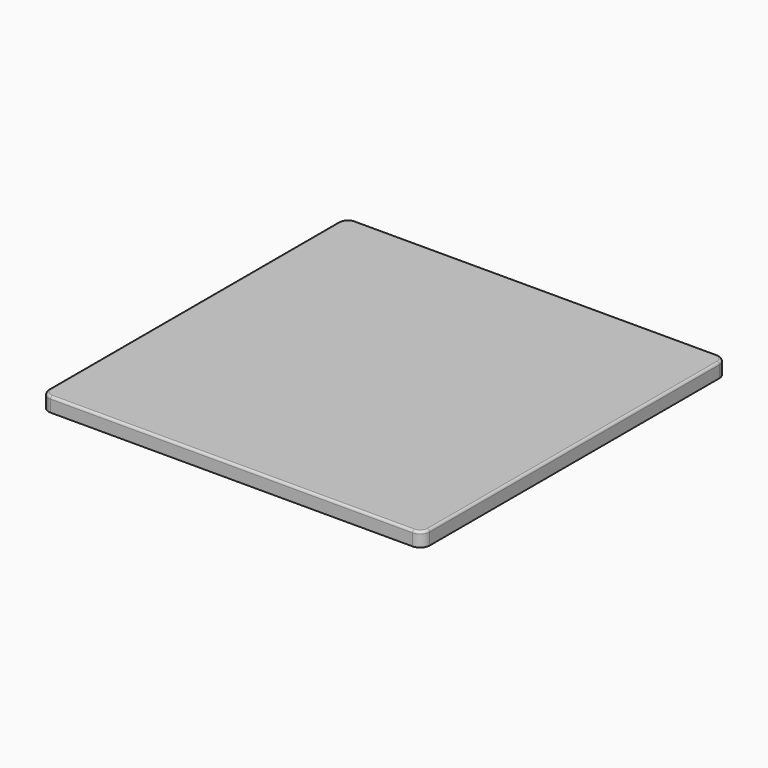
from build123d import *

# Parameters (mm, degrees)
F0_W     = 508
F0_H     = 508
F1_DEPTH = 19.05
F2_R     = 12.7
F3_R     = 3.175


with BuildPart() as f1:
    # F0 (on Top) → F1 (new body)
    with BuildSketch(Plane.XY):
        Rectangle(F0_W, F0_H)
    extrude(amount=F1_DEPTH)

    # F2
    f2_edges = [f1.edges().sort_by_distance(p)[0] for p in [
        (-254, 254, 9.525),
        (254, 254, 9.525),
        (-254, -254, 9.525),
        (254, -254, 9.525),
    ]]
    fillet(f2_edges, radius=F2_R)

    # F3
    f3_edges = [f1.edges().sort_by_distance(p)[0] for p in [
        (-254, 0, 19.05),
    ]]
    fillet(f3_edges, radius=F3_R)


solid = f1.part
